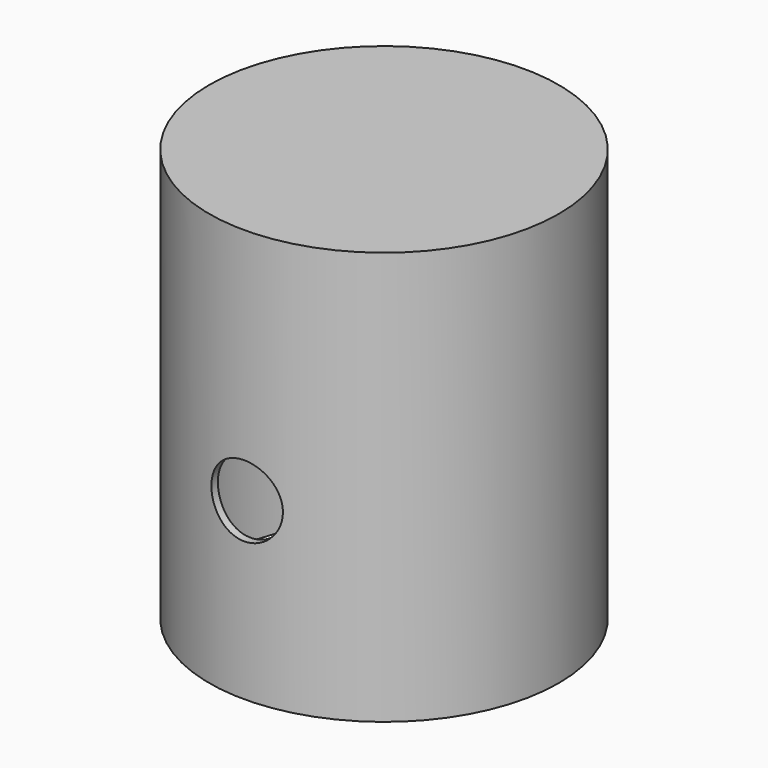
from build123d import *

# Parameters (mm, degrees)
SKETCH014_R             = 11
PAD013_DEPTH            = 2
SKETCH015_R             = 6.5
POCKET005_DEPTH         = 1
SKETCH016_R             = 11
SKETCH016_R_2           = 10.5
PAD014_DEPTH            = 24
SKETCH017_R             = 2.25
POCKET006_DEPTH         = 12
BODY009_PLACEMENT_ANGLE = 180


with BuildPart() as part:
    # Sketch014 → Pad013 (new body)
    with BuildSketch(Plane.XY):
        Circle(SKETCH014_R)
    extrude(amount=PAD013_DEPTH)

    # Sketch015 (on Face3 of Pad013) → Pocket005 (cut)
    with BuildSketch(Plane.XY.offset(2)):
        Circle(SKETCH015_R)
    extrude(amount=-POCKET005_DEPTH, mode=Mode.SUBTRACT)

    # Sketch016 (on Face3 of Pocket005) → Pad014 (join)
    with BuildSketch(Plane.XY.offset(2)):
        Circle(SKETCH016_R)
        Circle(SKETCH016_R_2, mode=Mode.SUBTRACT)
    extrude(amount=PAD014_DEPTH)

    # Sketch017 → Pocket006 (cut, symmetric)
    with BuildSketch(Plane.XZ):
        with Locations((0, 15)):
            Circle(SKETCH017_R)
    extrude(amount=POCKET006_DEPTH, both=True, mode=Mode.SUBTRACT)


with BuildPart() as part_1:
    # Body009 placement: moved
    add(part.part.moved(Location((0, 0, 30))).rotate(Axis((0, 0, 30), (1, 0, 0)), BODY009_PLACEMENT_ANGLE))


solid = part_1.part
